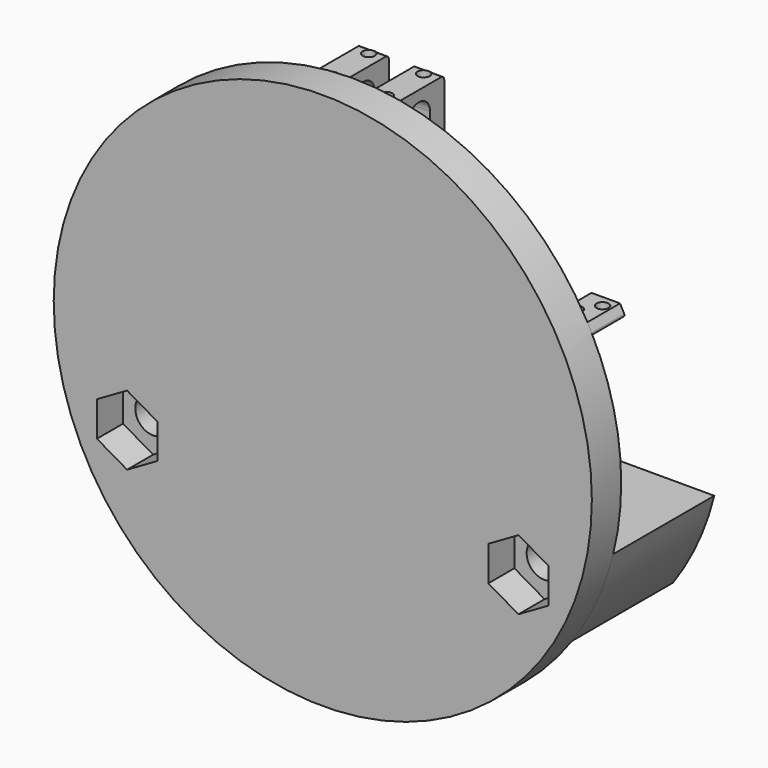
from build123d import *

# Parameters (mm, degrees)
SKETCH002_R     = 2.2
SKETCH002_R_2   = 1.45
PAD002_DEPTH    = 15.5
SKETCH003_R     = 33
SKETCH003_R_2   = 2.2
PAD003_DEPTH    = 4.5
POCKET_DEPTH    = 3
POCKET001_DEPTH = 4
POCKET003_DEPTH = 2
SKETCH011_W     = 5.5
SKETCH011_H     = 11.1
POCKET004_DEPTH = 25.001
SKETCH012_W     = 3.4
SKETCH012_H     = 17.1165875376
PAD007_DEPTH    = 7.75
POCKET005_DEPTH = 229.0145930205
SKETCH017_R     = 0.75
POCKET008_DEPTH = 17.1165875376
PAD008_DEPTH    = 5
SKETCH020_R     = 0.75
POCKET009_DEPTH = 1.3324822377
FILLET_R        = 0.5
FILLET001_R     = 0.5
FILLET002_R     = 3


with BuildPart() as part:
    # Sketch002 (on Face1 of ShapeBinder) → Pad002 (new body)
    with BuildSketch(Plane.XZ.offset(37.5)):
        with BuildLine():
            Line((-32.0156211872, -8), (32.0156211872, -8))
            ThreePointArc((26.9599822671, -19.0304849165), (29.9991391555, -13.7496054463), (32.0156211872, -8))
            Line((-26.9599822671, -19.0304849165), (26.9599822671, -19.0304849165))
            ThreePointArc((-32.0156211872, -8), (-29.9991391555, -13.7496054463), (-26.9599822671, -19.0304849165))
        make_face()
        with Locations((24, -11)):
            Circle(SKETCH002_R, mode=Mode.SUBTRACT)
        with Locations((0, -11)):
            Circle(SKETCH002_R_2, mode=Mode.SUBTRACT)
        with Locations((-24, -11)):
            Circle(SKETCH002_R, mode=Mode.SUBTRACT)
    extrude(amount=PAD002_DEPTH)

    # Sketch003 (on Face9 of Pad002) → Pad003 (join)
    with BuildSketch(Plane.XZ.offset(53)):
        Circle(SKETCH003_R)
        with Locations((24, -11)):
            Circle(SKETCH003_R_2, mode=Mode.SUBTRACT)
        with Locations((-24, -11)):
            Circle(SKETCH003_R_2, mode=Mode.SUBTRACT)
    extrude(amount=PAD003_DEPTH)

    # Sketch007 (on Face2 of Pad003) → Pocket (cut)
    with BuildSketch(Plane(origin=(0, -4.5, -8), x_dir=(1, 0, 0), z_dir=(0, 0, 1))):
        with BuildLine():
            ThreePointArc((1.45, -35), (0, -33.55), (-1.45, -35))
            Line((-1.45, -35), (-1.45, -45))
            Line((-1.45, -45), (1.45, -45))
            Line((1.45, -35), (1.45, -45))
        make_face()
    extrude(amount=-POCKET_DEPTH, mode=Mode.SUBTRACT)

    # Sketch008 (on Face16 of Pocket) → Pocket001 (cut)
    with BuildSketch(Plane.XZ.offset(57.5)):
        Polygon((27.7, -13.136195996), (27.7, -8.863804004), (24, -6.727608008), (20.3, -8.863804004), (20.3, -13.136195996), (24, -15.272391992), align=None)
        Polygon((-20.3, -13.136195996), (-20.3, -8.863804004), (-24, -6.727608008), (-27.7, -8.863804004), (-27.7, -13.136195996), (-24, -15.272391992), align=None)
    extrude(amount=-POCKET001_DEPTH, mode=Mode.SUBTRACT)

    # Sketch010 (on Face10 of Pocket001) → Pocket003 (cut)
    with BuildSketch(Plane(origin=(0, -49.5, 0), x_dir=(-1, 0, 0), z_dir=(0, 1, 0))):
        with BuildLine():
            ThreePointArc((-11, -11.0000000007), (6e-10, -22), (11, -10.9999999995))
            Line((11, 0), (11, -10.9999999995))
            Line((-11, 0), (11, 0))
            Line((-11, 0), (-11, -11.0000000007))
        make_face()
    extrude(amount=-POCKET003_DEPTH, mode=Mode.SUBTRACT)

    # Sketch011 (on Face2 of Pocket003) → Pocket004 (cut, through all)
    with BuildSketch(Plane(origin=(0, -4.5, -8), x_dir=(1, 0, 0), z_dir=(0, 0, 1))):
        with Locations((17.2656211872, -40.75)):
            Rectangle(SKETCH011_W, SKETCH011_H)
    extrude(amount=-POCKET004_DEPTH, mode=Mode.SUBTRACT)

    # Sketch012 (on Face6 of Pocket004) → Pad007 (join)
    with BuildSketch(Plane(origin=(0, -53, 0), x_dir=(-1, 0, 0), z_dir=(0, 1, 0))):
        with Locations((-3.4, 23.2352590367)):
            Rectangle(SKETCH012_W, SKETCH012_H)
        with Locations((3.4, 23.2352590367)):
            Rectangle(SKETCH012_W, SKETCH012_H)
    extrude(amount=PAD007_DEPTH)

    # Sketch013 (on Face33 of Pad007) → Pocket005 (cut, through all)
    with BuildSketch(Plane(origin=(5.1, -4.5, 0), x_dir=(0, 1, 0), z_dir=(1, 0, 0))):
        with BuildLine():
            ThreePointArc((-42.925, 28.7693325629), (-44.625, 30.4693325629), (-46.325, 28.7693325629))
            Line((-46.325, 28.7693325629), (-46.325, 17.7011855106))
            ThreePointArc((-46.325, 17.7011855106), (-44.625, 16.0011855106), (-42.925, 17.7011855106))
            Line((-42.925, 28.7693325629), (-42.925, 17.7011855106))
        make_face()
    extrude(amount=-POCKET005_DEPTH, mode=Mode.SUBTRACT)

    # Sketch017 (on Face30 of Pocket005) → Pocket008 (cut)
    with BuildSketch(Plane(origin=(0, -4.5, 31.7935528056), x_dir=(1, 0, 0), z_dir=(0, 0, 1))):
        with Locations((-3.3679491924, -41.75)):
            Circle(SKETCH017_R)
        with Locations((3.3679491924, -41.75)):
            Circle(SKETCH017_R)
        with Locations((-3.3679491924, -47.5)):
            Circle(SKETCH017_R)
        with Locations((3.3679491924, -47.5)):
            Circle(SKETCH017_R)
    extrude(amount=-POCKET008_DEPTH, mode=Mode.SUBTRACT)

    # Sketch019 (on Face6 of Pocket008) → Pad008 (join)
    with BuildSketch(Plane(origin=(0, -53, 0), x_dir=(-1, 0, 0), z_dir=(0, 1, 0))):
        with BuildLine():
            ThreePointArc((29.3729634054, 15.0409115677), (29.1187588461, 15.5273269839), (28.8564999708, 16.0094475056))
            Line((25.3564999708, 16.0094475056), (28.8564999708, 16.0094475056))
            Line((25.3564999708, 16.0094475056), (25.3564999708, 14.6769652679))
            Line((25.3564999708, 14.6769652679), (29.1504409553, 14.6769652679))
            ThreePointArc((29.1504409553, 14.6769652679), (29.3637325104, 14.796555481), (29.3729634054, 15.0409115677))
        make_face()
    pad008 = extrude(amount=PAD008_DEPTH)

    # Sketch020 (on Face30 of Pad008) → Pocket009 (cut)
    with BuildSketch(Plane(origin=(0, -4.5, 16.0094475056), x_dir=(1, 0, 0), z_dir=(0, 0, 1))):
        with Locations((-27.8564999708, -44.9285714286)):
            Circle(SKETCH020_R)
        with Locations((-26.3564999708, -47.0714285714)):
            Circle(SKETCH020_R)
    pocket009 = extrude(amount=-POCKET009_DEPTH, mode=Mode.SUBTRACT)

    # Mirrored: Pad008 across Sketch019 V_Axis
    add(pad008.mirror(Plane(origin=(0, -53, 0), x_dir=(0, 1, 0), z_dir=(-1, 0, 0))))

    # Mirrored001: Pocket009 across Sketch020 V_Axis
    add(pocket009.mirror(Plane(origin=(0, -4.5, 16.0094475056), x_dir=(0, 0, 1), z_dir=(1, 0, 0))), mode=Mode.SUBTRACT)

    # Fillet
    fillet_edges = [part.edges().sort_by_distance(p)[0] for p in [
        (-5.1, -53, 23.235259),
        (-1.7, -53, 23.235259),
        (1.7, -53, 23.235259),
        (5.1, -53, 23.235259),
    ]]
    fillet(fillet_edges, radius=FILLET_R)

    # Fillet001
    fillet001_edges = [part.edges().sort_by_distance(p)[0] for p in [
        (-3.4, -45.25, 14.676965),
        (3.4, -45.25, 14.676965),
        (-3.4, -45.25, 31.793553),
        (3.4, -45.25, 31.793553),
    ]]
    fillet(fillet001_edges, radius=FILLET001_R)

    # Fillet002
    fillet002_edges = [part.edges().sort_by_distance(p)[0] for p in [
        (-25.3565, -53, 15.343206),
        (25.3565, -53, 15.343206),
    ]]
    fillet(fillet002_edges, radius=FILLET002_R)


solid = part.part
